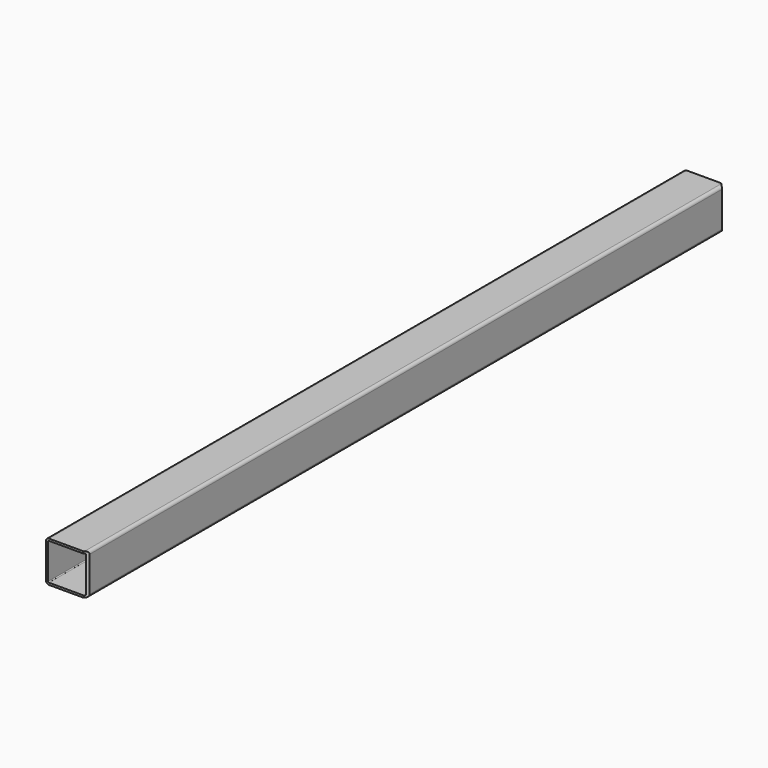
from build123d import *

# Parameters (mm, degrees)
F1_DEPTH = 975
F3_DEPTH = 100.001


with BuildPart() as f1:
    # F0 (on Front) → F1 (new body, symmetric)
    with BuildSketch(Plane.XZ):
        with BuildLine():
            ThreePointArc((50, 43), (47.9497474683, 47.9497474683), (43, 50))
            Line((43, 50), (-43, 50))
            ThreePointArc((-43, 50), (-47.9497474683, 47.9497474683), (-50, 43))
            Line((-50, 43), (-50, -43))
            ThreePointArc((-50, -43), (-47.9497474683, -47.9497474683), (-43, -50))
            Line((-43, -50), (43, -50))
            ThreePointArc((43, -50), (47.9497474683, -47.9497474683), (50, -43))
            Line((50, -43), (50, 43))
        make_face()
        with BuildLine():
            ThreePointArc((45, -43), (44.4142135624, -44.4142135624), (43, -45))
            Line((43, -45), (-43, -45))
            ThreePointArc((-43, -45), (-44.4142135624, -44.4142135624), (-45, -43))
            Line((-45, -43), (-45, 43))
            ThreePointArc((-45, 43), (-44.4142135624, 44.4142135624), (-43, 45))
            Line((-43, 45), (43, 45))
            ThreePointArc((43, 45), (44.4142135624, 44.4142135624), (45, 43))
            Line((45, 43), (45, -43))
        make_face(mode=Mode.SUBTRACT)
    extrude(amount=F1_DEPTH, both=True)

    # F2 (on face) → F3 (cut, through all)
    with BuildSketch(Plane.XY.offset(50)):
        Polygon((55.8614357137, -960.653282912), (-57.2756492761, -1073.7903679019), (-48.7903679019, -1082.2756492761), (64.346717088, -969.1385642863), align=None)
        Polygon((-48.7903679019, 1082.2756492761), (-57.2756492761, 1073.7903679019), (55.8614357137, 960.653282912), (64.346717088, 969.1385642863), align=None)
    extrude(amount=-F3_DEPTH, mode=Mode.SUBTRACT)


solid = f1.part
